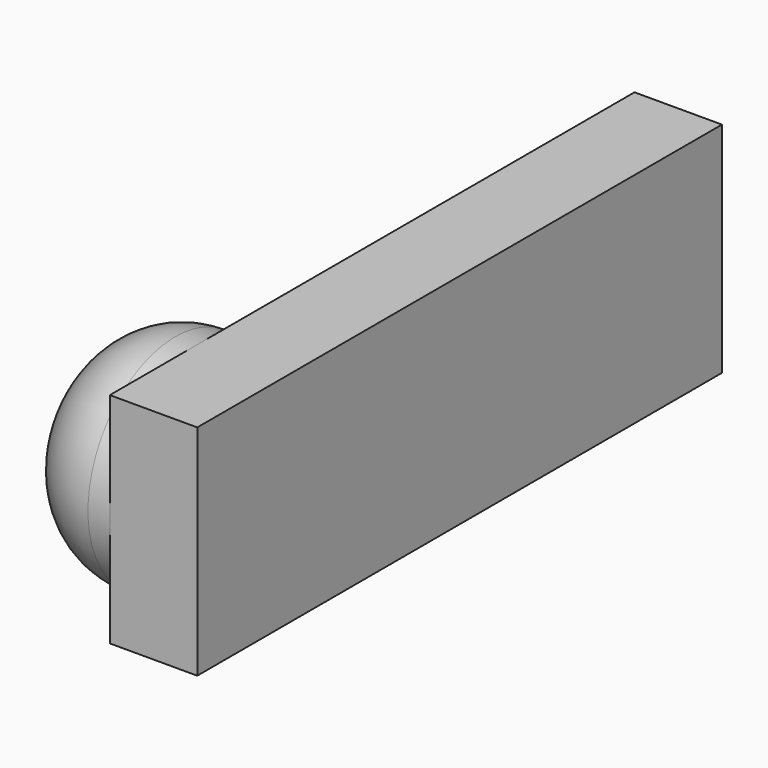
from build123d import *

# Parameters (mm, degrees)
SKETCH019_W  = 6
SKETCH019_H  = 2
PAD002_DEPTH = 0.8
SKETCH020_R  = 1
PAD003_DEPTH = 1
FILLET002_R  = 0.8


with BuildPart() as part:
    # Sketch019 → Pad002 (new body)
    with BuildSketch(Plane(origin=(-3, 16, 14), x_dir=(0, -1, 0), z_dir=(1, 0, 0))):
        with Locations((3, 1)):
            Rectangle(SKETCH019_W, SKETCH019_H)
    extrude(amount=PAD002_DEPTH)

    # Sketch020 (on Face5 of Pad002) → Pad003 (join)
    with BuildSketch(Plane(origin=(-3, 0, 0), x_dir=(0, 1, 0), z_dir=(-1, 0, 0))):
        with Locations((11, -13)):
            Circle(SKETCH020_R)
    extrude(amount=PAD003_DEPTH)

    # Fillet002
    fillet002_edges = [part.edges().sort_by_distance(p)[0] for p in [
        (-4, 10, 13),
    ]]
    fillet(fillet002_edges, radius=FILLET002_R)


with BuildPart() as part_1:
    # Body002 placement: moved
    add(part.part.moved(Location((-16, 0, 0))))


with BuildPart() as part_2:
    # Body003 placement: moved
    add(part_1.part.moved(Location((17.6, -2.5, -6))))


solid = part_2.part
